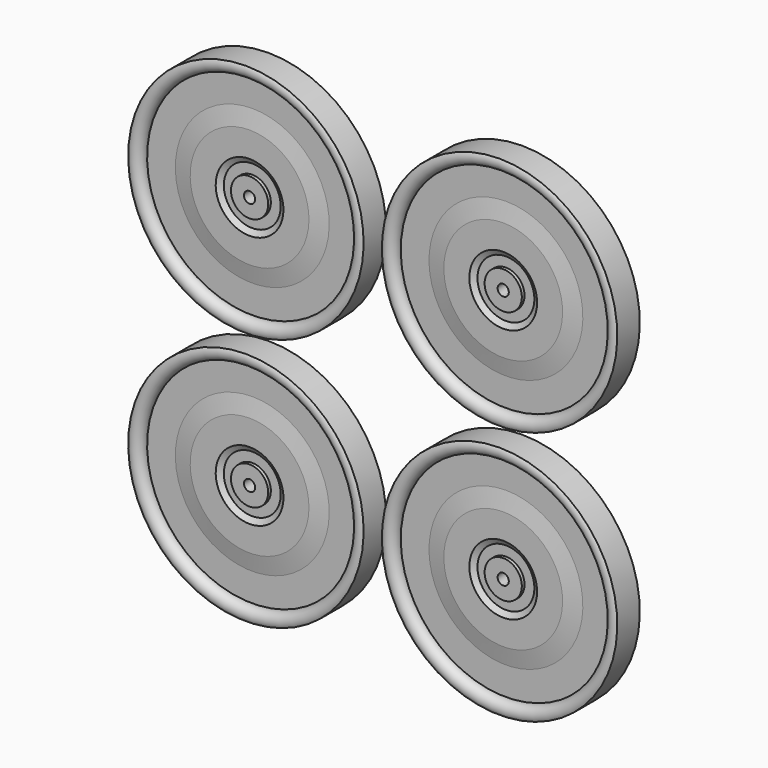
from build123d import *

# Parameters (mm, degrees)
F2_R          = 1.5
F3_DEPTH      = 5
F3_DEPTH_BACK = 25


with BuildPart() as f1:
    # F0 (on Right) → F1 (revolve)
    with BuildSketch(Plane.YZ):
        with BuildLine():
            Line((3.7754666396, 31.5562859178), (0, 31.5562859178))
            Line((0, 31.5562859178), (-3.7754666396, 31.5562859178))
            ThreePointArc((-3.7754666396, 31.5562859178), (-3.8086352066, 29.1782935809), (-1.6467164969, 28.1873065978))
            Line((-1.6467164969, 28.1873065978), (-1.6467164969, 20.6222443401))
            Line((-1.6467164969, 20.6222443401), (-2.548083663, 15.9175172448))
            Line((-2.548083663, 15.9175172448), (-2.548083663, 9.0813271135))
            Line((-2.548083663, 9.0813271135), (-1.6467164969, 7.6252732883))
            Line((-1.6467164969, 7.6252732883), (-1.6467164969, 4.9857129343))
            Line((-1.6467164969, 4.9857129343), (-2.548083663, 4.9857129343))
            Line((-2.548083663, 4.9857129343), (-2.548083663, 0))
            Line((-2.548083663, 0), (0, 0))
            Line((0, 0), (2.548083663, 0))
            Line((2.548083663, 0), (2.548083663, 4.9857129343))
            Line((2.548083663, 4.9857129343), (1.6467164969, 4.9857129343))
            Line((1.6467164969, 4.9857129343), (1.6467164969, 7.6252732883))
            Line((1.6467164969, 7.6252732883), (2.548083663, 9.0813271135))
            Line((2.548083663, 9.0813271135), (2.548083663, 15.9175172448))
            Line((2.548083663, 15.9175172448), (1.6467164969, 20.6222443401))
            Line((1.6467164969, 20.6222443401), (1.6467164969, 28.1873065978))
            ThreePointArc((1.6467164969, 28.1873065978), (3.8086352066, 29.1782935809), (3.7754666396, 31.5562859178))
        make_face()
    revolve(axis=Axis((0, 1.2740418315, 0), (0, -1, 0)))

    # F2 (on Front) → F3 (cut, two sides)
    with BuildSketch(Plane.XZ) as f3_sk:
        Circle(F2_R)
    extrude(amount=-F3_DEPTH, mode=Mode.SUBTRACT)
    extrude(f3_sk.sketch, amount=F3_DEPTH_BACK, mode=Mode.SUBTRACT)


with BuildPart() as f4_1:
    # F4: copy of F1
    add(f1.part.moved(Location((68, 0, 0))))


with BuildPart() as f5_1:
    # F5: copy of F1
    add(f1.part.moved(Location((0, 0, 68))))


with BuildPart() as f6_1:
    # F6: copy of F4_1
    add(f4_1.part.moved(Location((0, 0, 68.2))))


solid = Compound([f1.part, f4_1.part, f5_1.part, f6_1.part])
